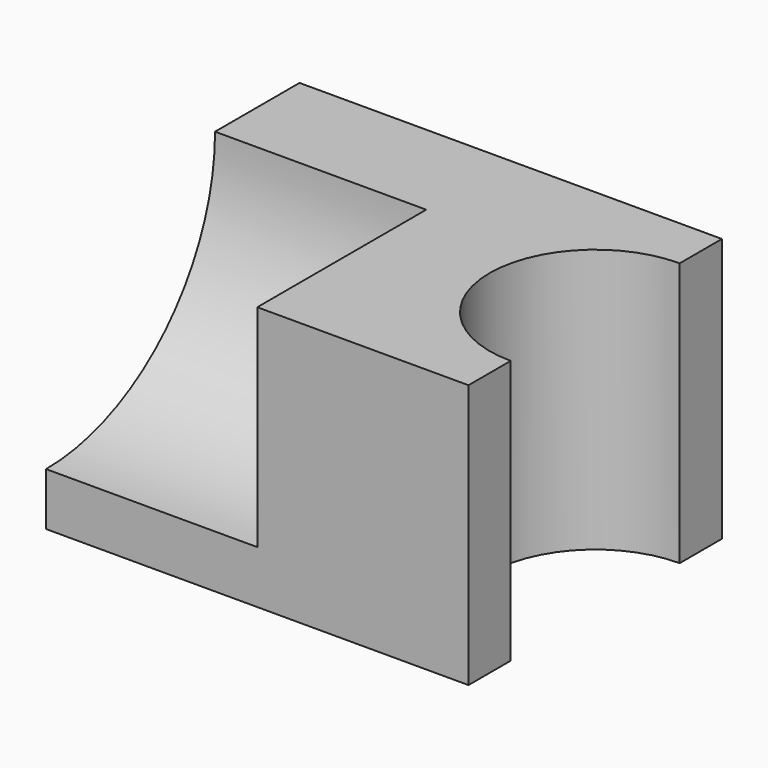
from build123d import *

# Parameters (mm, degrees)
F0_W     = 101.6
F0_H     = 63.5
F1_DEPTH = 76.2
F3_DEPTH = 63.501
F5_DEPTH = 50.8


with BuildPart() as f1:
    # F0 (on Front) → F1 (new body)
    with BuildSketch(Plane.XZ):
        with Locations((-0.71918, -4.81683)):
            Rectangle(F0_W, F0_H)
    extrude(amount=F1_DEPTH)

    # F2 (on face) → F3 (cut, through all)
    with BuildSketch(Plane.XY.offset(26.93317)):
        with BuildLine():
            Line((50.08082, -63.5), (50.08082, -12.7))
            ThreePointArc((50.08082, -12.7), (24.68082, -38.1), (50.08082, -63.5))
        make_face()
    extrude(amount=-F3_DEPTH, mode=Mode.SUBTRACT)

    # F4 (on face) → F5 (cut)
    with BuildSketch(Plane(origin=(-51.51918, 0, 0), x_dir=(0, -1, 0), z_dir=(-1, 0, 0))):
        with BuildLine():
            Line((76.2, 26.93317), (25.4, 26.93317))
            ThreePointArc((25.4, 26.93317), (40.278976, -8.987855), (76.2, -23.86683))
            Line((76.2, -23.86683), (76.2, 26.93317))
        make_face()
    extrude(amount=-F5_DEPTH, mode=Mode.SUBTRACT)


solid = f1.part
